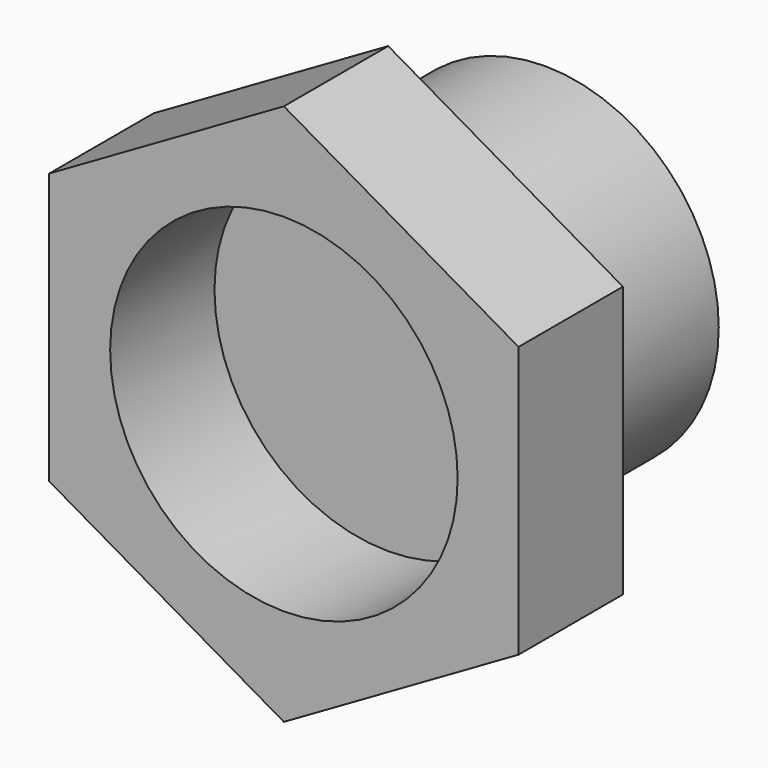
from build123d import *

# Parameters (mm, degrees)
F0_R     = 33.839354
F1_DEPTH = 38.170788
F2_DEPTH = 25.4


with BuildPart() as f1:
    # F0 (on Front) → F1 (new body)
    with BuildSketch(Plane.XZ):
        Circle(F0_R)
    extrude(amount=-F1_DEPTH)


with BuildPart() as f2:
    # F0 (on Front) → F2 (new body)
    with BuildSketch(Plane.XZ):
        Polygon((45.703322, -26.386825), (45.703322, 26.386825), (0, 52.77365), (-45.703322, 26.386825), (-45.703322, -26.386825), (0, -52.77365), align=None)
        Circle(F0_R, mode=Mode.SUBTRACT)
    extrude(amount=F2_DEPTH)


solid = Compound([f1.part, f2.part])
